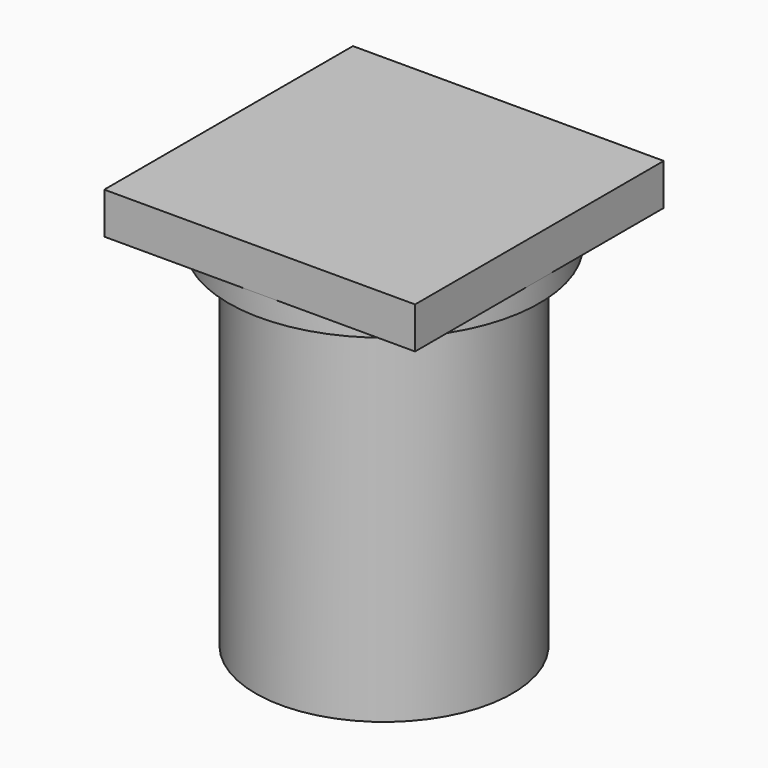
from build123d import *

# Parameters (mm, degrees)
CIRCLE_R         = 3.75
EXTRUDE001_DEPTH = 1.5
CIRCLE001_R      = 3.1
EXTRUDE_DEPTH    = 10
BOX_W            = 7.5
BOX_H            = 7.5
BOX_DEPTH        = 1


with BuildPart() as extrude001:
    # Circle → Extrude001 (new body)
    with BuildSketch(Plane(origin=(3.75, 3.75, 1), x_dir=(-1, 0, 0), z_dir=(0, 0, 1))):
        Circle(CIRCLE_R)
    extrude(amount=EXTRUDE001_DEPTH)


with BuildPart() as extrude001_1:
    # Extrude001 placement: moved
    add(extrude001.part.moved(Location((0, 0, -1.5))))


with BuildPart() as fusion:
    # Circle001 → Extrude (new body)
    with BuildSketch(Plane(origin=(3.75, 3.75, 1), x_dir=(-1, 0, 0), z_dir=(0, 0, 1))):
        Circle(CIRCLE001_R)
    extrude(amount=EXTRUDE_DEPTH)


with BuildPart() as fusion_1:
    # Extrude placement: moved
    add(fusion.part.moved(Location((0, 0, -10))))

    # Fusion: union Extrude001
    add(extrude001_1.part)


with BuildPart() as obj1:
    # Box → Box (new body)
    with BuildSketch(Plane.XY):
        with Locations((3.75, 3.75)):
            Rectangle(BOX_W, BOX_H)
    extrude(amount=BOX_DEPTH)

    # Fusion001: union Fusion
    add(fusion_1.part)


solid = obj1.part
